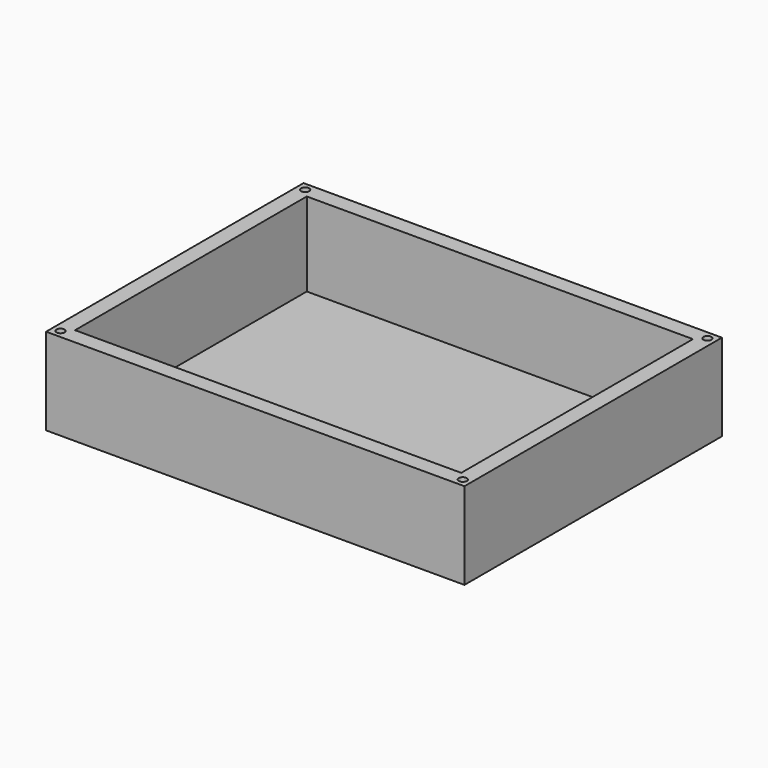
from build123d import *

# Parameters (mm, degrees)
SKETCH_W     = 260
SKETCH_H     = 200
SKETCH_W_2   = 240
SKETCH_H_2   = 180
PAD_DEPTH    = 52
SKETCH001_W  = 260
SKETCH001_H  = 200
PAD001_DEPTH = 2
SKETCH002_R  = 2.5
POCKET_DEPTH = 10


with BuildPart() as part:
    # Sketch → Pad (new body)
    with BuildSketch(Plane.XY):
        with Locations((120.5, 90.5)):
            Rectangle(SKETCH_W, SKETCH_H)
        with Locations((120.5, 90.5)):
            Rectangle(SKETCH_W_2, SKETCH_H_2, mode=Mode.SUBTRACT)
    extrude(amount=PAD_DEPTH)

    # Sketch001 → Pad001 (join)
    with BuildSketch(Plane.XY):
        with Locations((120.5, 90.5)):
            Rectangle(SKETCH001_W, SKETCH001_H)
    extrude(amount=-PAD001_DEPTH)

    # Sketch002 (on Face3 of Pad001) → Pocket (cut)
    with BuildSketch(Plane.XY.offset(52)):
        with Locations((245.5, 185.5)):
            Circle(SKETCH002_R)
        with Locations((245.5, -4.5)):
            Circle(SKETCH002_R)
        with Locations((-4.5, -4.5)):
            Circle(SKETCH002_R)
        with Locations((-4.5, 185.5)):
            Circle(SKETCH002_R)
    extrude(amount=-POCKET_DEPTH, mode=Mode.SUBTRACT)


solid = part.part
